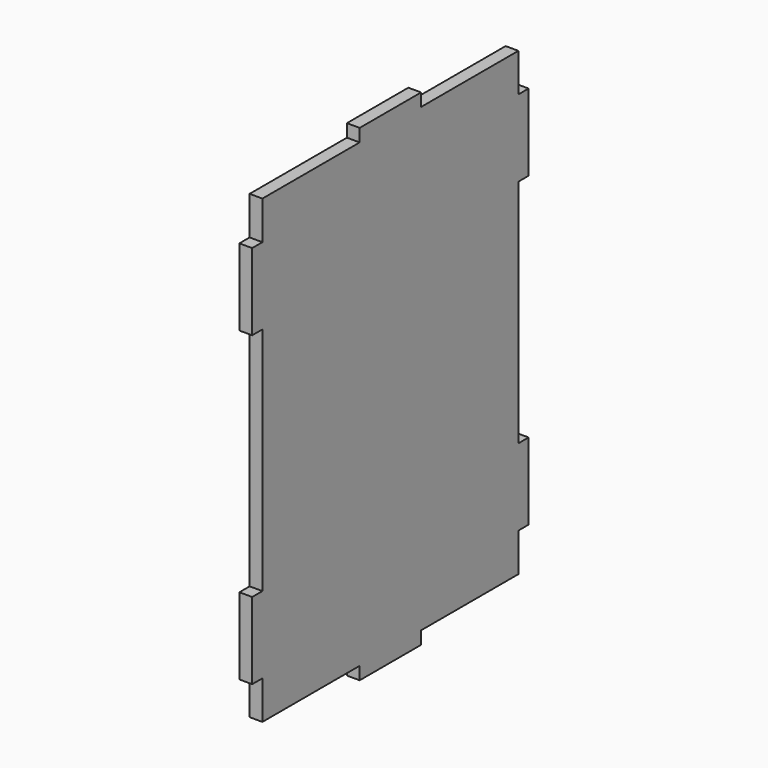
from build123d import *

# Parameters (mm, degrees)
F1_DEPTH = 3


with BuildPart() as f1:
    # F0 (on Right) → F1 (new body)
    with BuildSketch(Plane.YZ):
        Polygon((37.5, 45), (37.5, 54), (9, 54), (9, 57), (-9, 57), (-9, 54), (-37.5, 54), (-37.5, 45), (-40.5, 45), (-40.5, 27), (-37.5, 27), (-37.5, -27), (-40.5, -27), (-40.5, -45), (-37.5, -45), (-37.5, -54), (-9, -54), (-9, -57), (9, -57), (9, -54), (37.5, -54), (37.5, -45), (40.5, -45), (40.5, -27), (37.5, -27), (37.5, 27), (40.5, 27), (40.5, 45), align=None)
    extrude(amount=F1_DEPTH)


solid = f1.part
